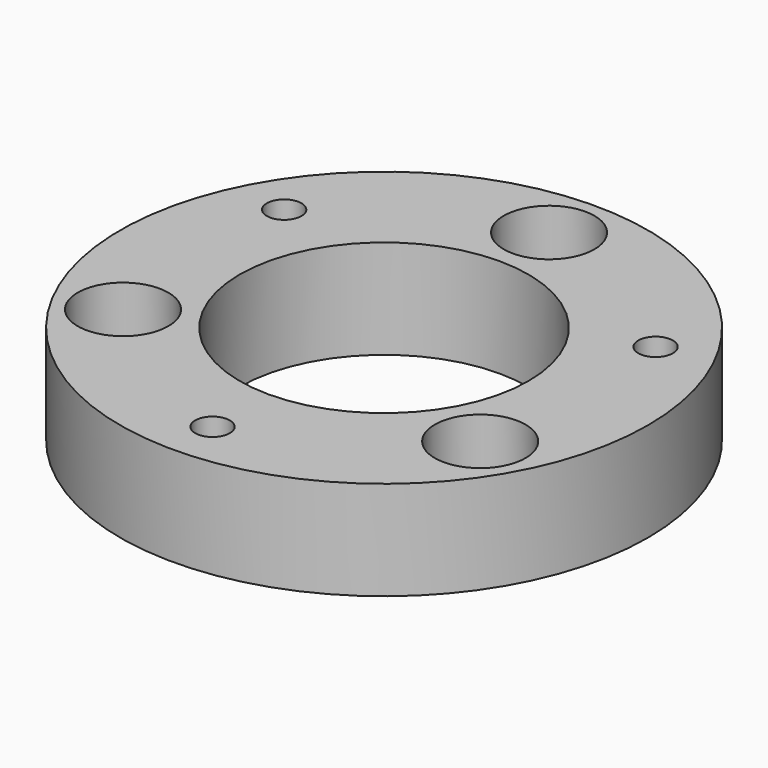
from build123d import *

# Parameters (mm, degrees)
SKETCH_R     = 32
SKETCH_R_2   = 2.1
SKETCH_R_3   = 3
SKETCH_R_4   = 17.5
PAD_DEPTH    = 12
SKETCH001_R  = 5.5
POCKET_DEPTH = 8


with BuildPart() as part:
    # Sketch → Pad (new body)
    with BuildSketch(Plane.XY):
        Circle(SKETCH_R)
        with Locations((0, -26)):
            Circle(SKETCH_R_2, mode=Mode.SUBTRACT)
        with Locations((-22.51666, 13)):
            Circle(SKETCH_R_2, mode=Mode.SUBTRACT)
        with Locations((22.51666, 13)):
            Circle(SKETCH_R_2, mode=Mode.SUBTRACT)
        with Locations((0, 25)):
            Circle(SKETCH_R_3, mode=Mode.SUBTRACT)
        with Locations((-21.650635, -12.5)):
            Circle(SKETCH_R_3, mode=Mode.SUBTRACT)
        with Locations((21.650635, -12.5)):
            Circle(SKETCH_R_3, mode=Mode.SUBTRACT)
        Circle(SKETCH_R_4, mode=Mode.SUBTRACT)
    extrude(amount=PAD_DEPTH)

    # Sketch001 (on Face10 of Pad) → Pocket (cut)
    with BuildSketch(Plane.XY.offset(12)):
        with Locations((0, 25)):
            Circle(SKETCH001_R)
        with Locations((-21.650635, -12.5)):
            Circle(SKETCH001_R)
        with Locations((21.650635, -12.5)):
            Circle(SKETCH001_R)
    extrude(amount=-POCKET_DEPTH, mode=Mode.SUBTRACT)


solid = part.part
